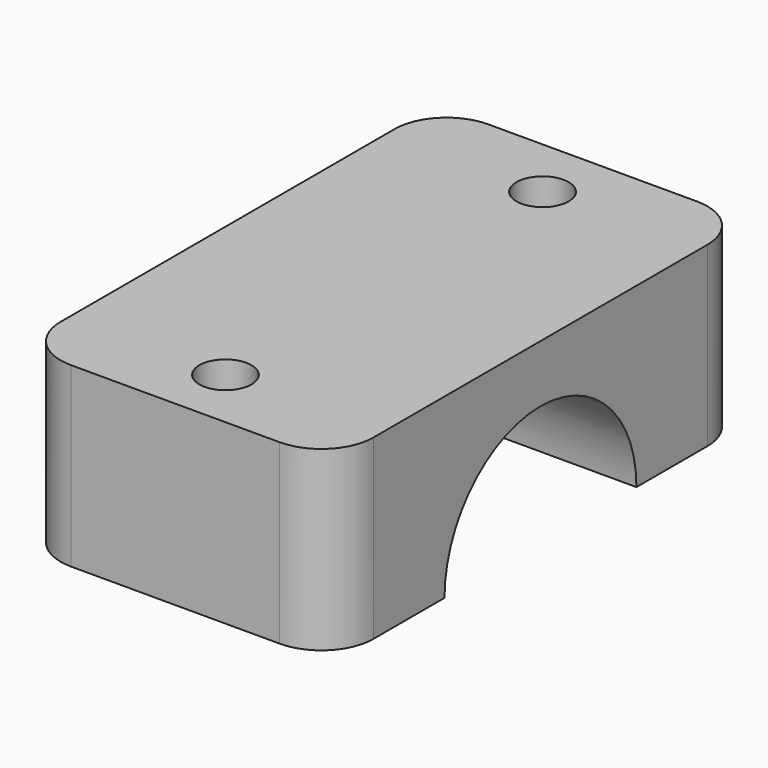
from build123d import *

# Parameters (mm, degrees)
F0_W     = 30
F0_H     = 25
F1_DEPTH = 17
F2_D     = 5
F4_DEPTH = 50
F5_R     = 5


with BuildPart() as f1:
    # F0 (on Top) → F1 (new body)
    with BuildSketch(Plane.XY):
        with Locations((0, 12.5)):
            Rectangle(F0_W, F0_H)
        with Locations((0, -12.5)):
            Rectangle(F0_W, F0_H)
    extrude(amount=F1_DEPTH)

    # F2 (through all)
    with Locations(Plane(origin=(0, 0, 0), x_dir=(1, 0, 0), z_dir=(0, 0, -1))):
        with Locations((0, 19), (0, -19)):
            Hole(F2_D / 2)

    # F3 (on face) → F4 (cut)
    with BuildSketch(Plane.YZ.offset(15)):
        with BuildLine():
            ThreePointArc((-11.5, 0), (0, -11.5), (11.5, 0))
            Line((11.5, 0), (-11.5, 0))
        make_face()
        with BuildLine():
            Line((-11.5, 0), (11.5, 0))
            ThreePointArc((11.5, 0), (0, 11.5), (-11.5, 0))
        make_face()
    extrude(amount=-F4_DEPTH, mode=Mode.SUBTRACT)

    # F5
    f5_edges = [f1.edges().sort_by_distance(p)[0] for p in [
        (15, -25, 8.5),
        (-15, -25, 8.5),
        (15, 25, 8.5),
        (-15, 25, 8.5),
    ]]
    fillet(f5_edges, radius=F5_R)


solid = f1.part
